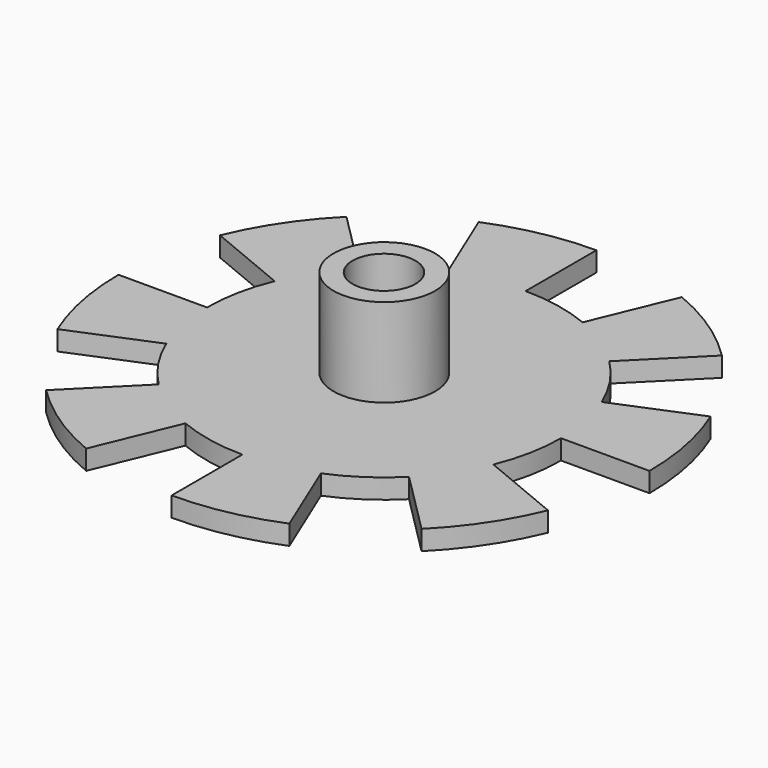
from build123d import *

# Parameters (mm, degrees)
SKETCH_R           = 27
SKETCH_R_2         = 3.2
PAD_DEPTH          = 2
SKETCH001_R        = 5.161315
SKETCH001_R_2      = 3.2
PAD001_DEPTH       = 9
POCKET_DEPTH       = 156.312374
POLARPATTERN_COUNT = 8


with BuildPart() as part:
    # Sketch → Pad (new body)
    with BuildSketch(Plane.XY):
        Circle(SKETCH_R)
        Circle(SKETCH_R_2, mode=Mode.SUBTRACT)
    extrude(amount=PAD_DEPTH)

    # Sketch001 (on Face4 of Pad) → Pad001 (join)
    with BuildSketch(Plane.XY.offset(2)):
        with Locations((-8.6e-05, 0.038685)):
            Circle(SKETCH001_R)
        Circle(SKETCH001_R_2, mode=Mode.SUBTRACT)
    extrude(amount=PAD001_DEPTH)

    # Sketch002 (on Face3 of Pad001) → Pocket (cut, through all)
    with BuildSketch(Plane.XY.offset(2)):
        with BuildLine():
            Line((0, 32.043877), (0, 18))
            ThreePointArc((6.888302, 16.629832), (3.511626, 17.654135), (0, 18))
            Line((6.888302, 16.629832), (12.262661, 29.604683))
            Line((0, 32.043877), (12.262661, 29.604683))
        make_face()
    pocket = extrude(amount=-POCKET_DEPTH, mode=Mode.SUBTRACT)

    # PolarPattern: Pocket ×8 about axis
    polarpattern_axis = Axis((0, 0, 2), (0, 0, 1))
    for i in range(1, POLARPATTERN_COUNT):
        add(pocket.rotate(polarpattern_axis, i * 360 / POLARPATTERN_COUNT), mode=Mode.SUBTRACT)


solid = part.part
